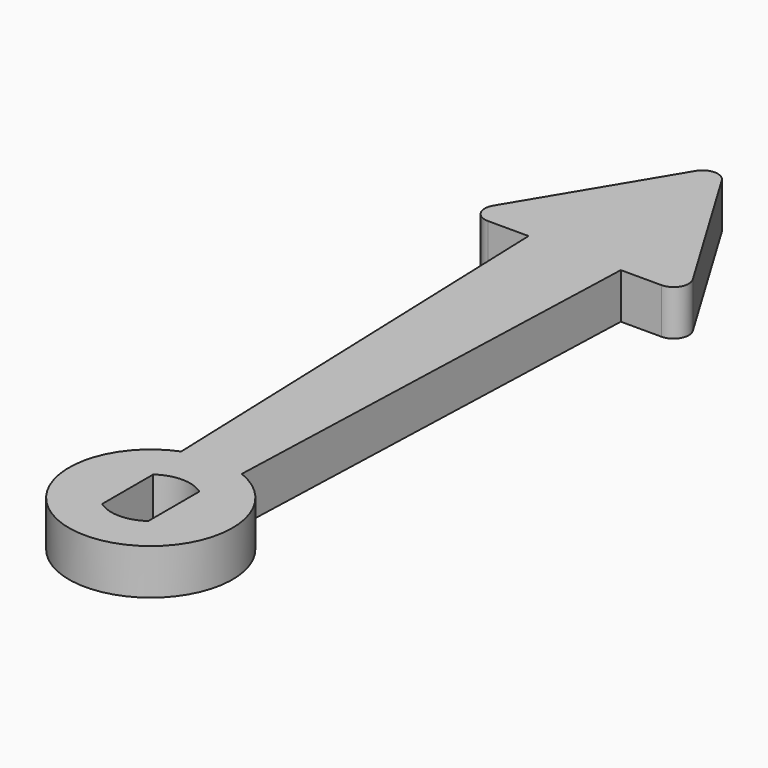
from build123d import *

# Parameters (mm, degrees)
F0_R     = 5.4
F1_DEPTH = 1.5
F3_DEPTH = 3
F5_DEPTH = 3
F6_R     = 1


with BuildPart() as f1:
    # F0 (on Top) → F1 (new body, symmetric)
    with BuildSketch(Plane.XY):
        Circle(F0_R)
        with BuildLine():
            ThreePointArc((1.525, 2.1057955741), (2.3157072354, 1.1821590418), (2.6, 0))
            ThreePointArc((2.6, 0), (2.3157072354, -1.1821590418), (1.525, -2.1057955741))
            ThreePointArc((1.525, -2.1057955741), (0, -2.6), (-1.525, -2.1057955741))
            ThreePointArc((-1.525, -2.1057955741), (-2.6, 0), (-1.525, 2.1057955741))
            ThreePointArc((-1.525, 2.1057955741), (0, 2.6), (1.525, 2.1057955741))
        make_face(mode=Mode.SUBTRACT)
        with BuildLine():
            ThreePointArc((1.525, -2.1057955741), (2.3157072354, -1.1821590418), (2.6, 0))
            ThreePointArc((2.6, 0), (2.3157072354, 1.1821590418), (1.525, 2.1057955741))
            Line((1.525, 2.1057955741), (1.525, -2.1057955741))
        make_face()
        with BuildLine():
            Line((-1.525, -2.1057955741), (-1.525, 2.1057955741))
            ThreePointArc((-1.525, 2.1057955741), (-2.6, 0), (-1.525, -2.1057955741))
        make_face()
    extrude(amount=F1_DEPTH, both=True)

    # F2 (on face) → F3 (join, through all)
    with BuildSketch(Plane.XY.offset(1.5)):
        with BuildLine():
            ThreePointArc((-2, 5.0159744816), (0, 5.4), (2, 5.0159744816))
            Line((2, 5.0159744816), (3.0470652436, 35))
            Line((3.0470652436, 35), (0, 35))
            Line((0, 35), (-3.0470652436, 35))
            Line((-3.0470652436, 35), (-2, 5.0159744816))
        make_face()
    extrude(amount=-F3_DEPTH)

    # F4 (on face) → F5 (join, through all)
    with BuildSketch(Plane.XY.offset(1.5)):
        Polygon((0, 47.5), (-7.5, 35), (-3.0470652436, 35), (3.0470652436, 35), (7.5, 35), align=None)
    extrude(amount=-F5_DEPTH)

    # F6
    f6_edges = [f1.edges().sort_by_distance(p)[0] for p in [
        (-7.5, 35, 0),
        (0, 47.5, 0),
        (7.5, 35, 0),
    ]]
    fillet(f6_edges, radius=F6_R)


solid = f1.part
